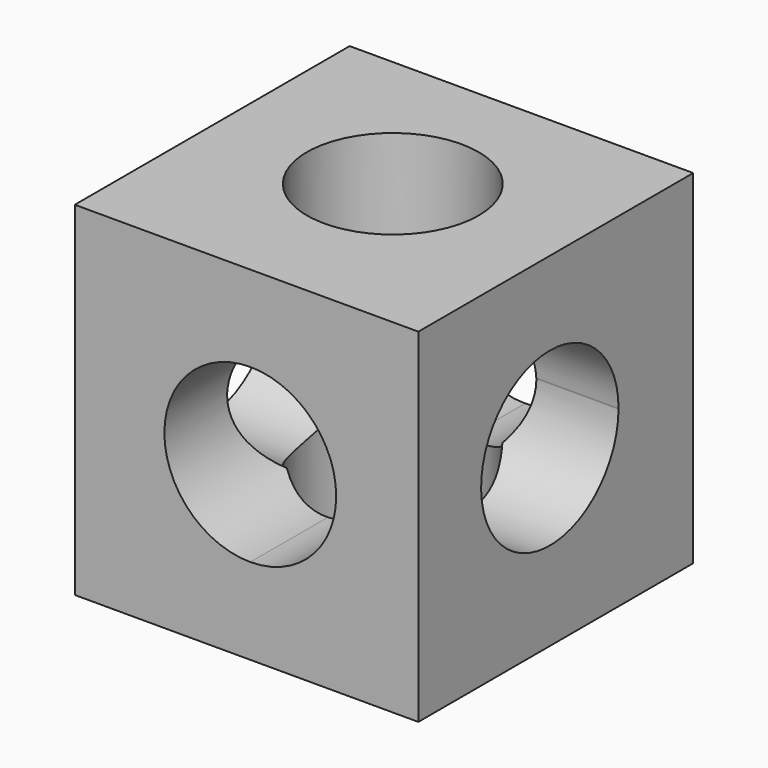
from build123d import *

# Parameters (mm, degrees)
F0_W     = 20
F0_H     = 20
F1_DEPTH = 20
F3_DEPTH = 20
F5_DEPTH = 20
F7_DEPTH = 20


with BuildPart() as f1:
    # F0 (on Top) → F1 (new body)
    with BuildSketch(Plane.XY):
        with Locations((10, 10)):
            Rectangle(F0_W, F0_H)
    extrude(amount=F1_DEPTH)

    # F2 (on Front) → F3 (cut)
    with BuildSketch(Plane.XZ):
        with BuildLine():
            Line((10.2155506611, 5.0109362975), (10.2155506611, 15.0109362975))
            ThreePointArc((10.2155506611, 15.0109362975), (5.2155506611, 10.0109362975), (10.2155506611, 5.0109362975))
        make_face()
        with BuildLine():
            ThreePointArc((10.2155506611, 5.0109362975), (13.751084567, 6.4754023915), (15.2155506611, 10.0109362975))
            ThreePointArc((15.2155506611, 10.0109362975), (13.751084567, 13.5464702034), (10.2155506611, 15.0109362975))
            Line((10.2155506611, 15.0109362975), (10.2155506611, 5.0109362975))
        make_face()
    extrude(amount=-F3_DEPTH, mode=Mode.SUBTRACT)

    # F4 (on face) → F5 (cut)
    with BuildSketch(Plane.YZ.offset(20)):
        with BuildLine():
            ThreePointArc((14.5658312988, 10.1075443091), (14.5659520352, 10.1276052724), (14.5659922808, 10.1476665586))
            ThreePointArc((14.5659922808, 10.1476665586), (9.509016205, 15.1473419208), (4.5672907901, 10.0337218057))
            Line((4.5672907901, 10.0337218057), (14.5658312988, 10.1075443091))
        make_face()
        with BuildLine():
            Line((14.5658312988, 10.1075443091), (4.5672907901, 10.0337218057))
            ThreePointArc((4.5672907901, 10.0337218057), (9.6029079143, 5.1478028369), (14.5658312988, 10.1075443091))
        make_face()
    extrude(amount=-F5_DEPTH, mode=Mode.SUBTRACT)

    # F6 (on face) → F7 (cut)
    with BuildSketch(Plane.XY.offset(20)):
        with BuildLine():
            ThreePointArc((5, 10.640097782), (10, 5.640097782), (15, 10.640097782))
            Line((15, 10.640097782), (5, 10.640097782))
        make_face()
        with BuildLine():
            Line((5, 10.640097782), (15, 10.640097782))
            ThreePointArc((15, 10.640097782), (10, 15.640097782), (5, 10.640097782))
        make_face()
    extrude(amount=-F7_DEPTH, mode=Mode.SUBTRACT)


solid = f1.part
